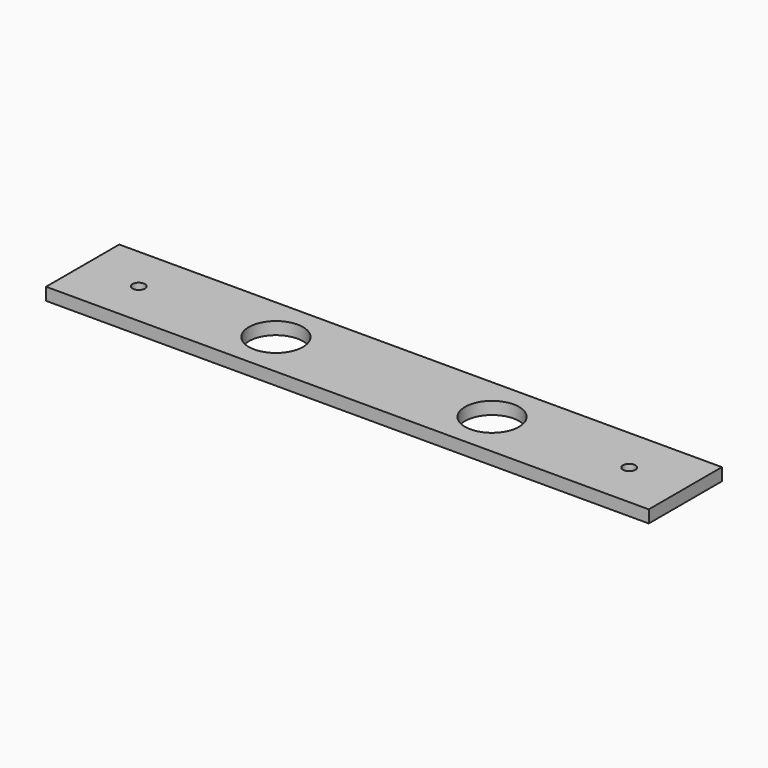
from build123d import *

# Parameters (mm, degrees)
F0_W     = 145
F0_H     = 22
F0_R     = 1.5
F0_R_2   = 6.5
F1_DEPTH = 3


with BuildPart() as f1:
    # F0 (on Top) → F1 (new body)
    with BuildSketch(Plane.XY):
        with Locations((72.5, -11)):
            Rectangle(F0_W, F0_H)
        with Locations((13.5, -11)):
            Circle(F0_R, mode=Mode.SUBTRACT)
        with Locations((46.5, -11)):
            Circle(F0_R_2, mode=Mode.SUBTRACT)
        with Locations((98.5, -11)):
            Circle(F0_R_2, mode=Mode.SUBTRACT)
        with Locations((131.5, -11)):
            Circle(F0_R, mode=Mode.SUBTRACT)
    extrude(amount=F1_DEPTH)


solid = f1.part
